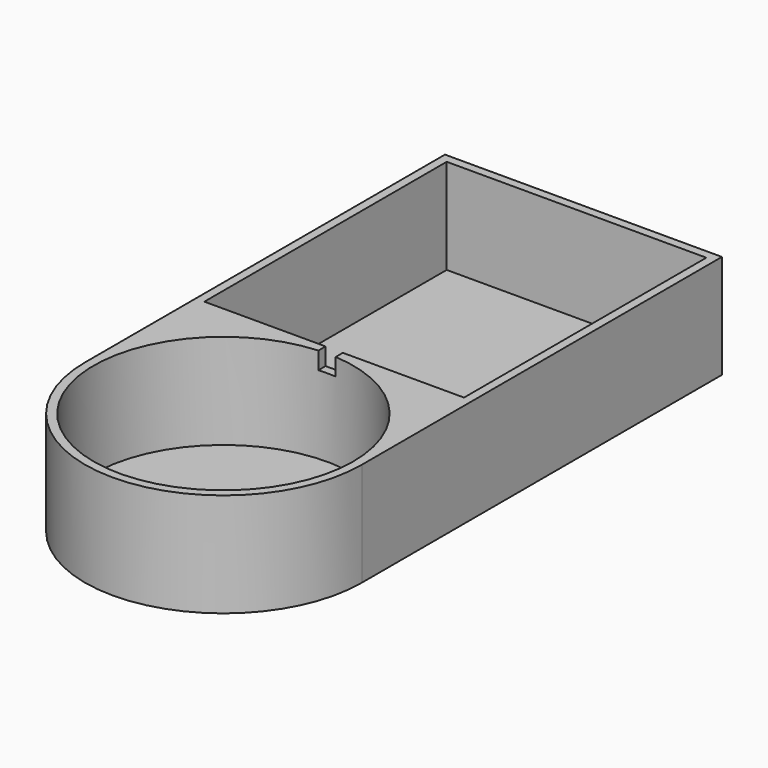
from build123d import *

# Parameters (mm, degrees)
F0_W     = 101.6
F0_H     = 165.1
F1_DEPTH = 38.1
F2_R     = 47.625
F3_DEPTH = 34.925
F4_W     = 6.35
F4_H     = 6.35
F5_DEPTH = 50.8
F6_W     = 95.25
F6_H     = 111.125
F7_DEPTH = 34.925


with BuildPart() as f1:
    # F0 (on Top) → F1 (new body)
    with BuildSketch(Plane.XY):
        with BuildLine():
            Line((50.8, 0), (-50.8, 0))
            ThreePointArc((-50.8, 0), (0, -50.8), (50.8, 0))
        make_face()
        with Locations((0, 82.55)):
            Rectangle(F0_W, F0_H)
    extrude(amount=F1_DEPTH)

    # F2 (on face) → F3 (cut)
    with BuildSketch(Plane.XY.offset(38.1)):
        Circle(F2_R)
    extrude(amount=-F3_DEPTH, mode=Mode.SUBTRACT)

    # F4 (on Front) → F5 (cut)
    with BuildSketch(Plane.XZ):
        with Locations((0, 34.925)):
            Rectangle(F4_W, F4_H)
    extrude(amount=-F5_DEPTH, mode=Mode.SUBTRACT)

    # F6 (on face) → F7 (cut)
    with BuildSketch(Plane.XY.offset(38.1)):
        with Locations((0, 106.3625)):
            Rectangle(F6_W, F6_H)
    extrude(amount=-F7_DEPTH, mode=Mode.SUBTRACT)


solid = f1.part
